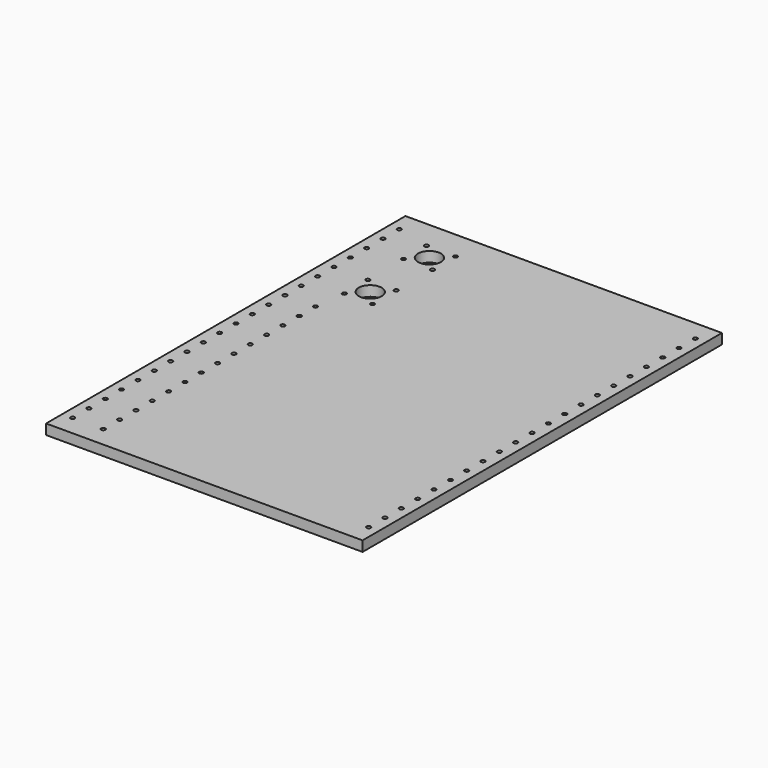
from build123d import *

# Parameters (mm, degrees)
F0_R     = 2.5527
F0_R_2   = 14.2875
F1_DEPTH = 12.7


with BuildPart() as f1:
    # F0 (on Top) → F1 (new body)
    with BuildSketch(Plane.XY):
        Polygon((171.45, -279.4), (196.85, -279.4), (196.85, 279.4), (171.45, 279.4), (-171.45, 279.4), (-196.85, 279.4), (-196.85, -279.4), (-171.45, -279.4), (-158.75, -279.4), (-133.35, -279.4), align=None)
        with Locations((-184.15, -254)):
            Circle(F0_R, mode=Mode.SUBTRACT)
        with Locations((-184.15, -228.6)):
            Circle(F0_R, mode=Mode.SUBTRACT)
        with Locations((-146.05, -254)):
            Circle(F0_R, mode=Mode.SUBTRACT)
        with Locations((-146.05, -228.6)):
            Circle(F0_R, mode=Mode.SUBTRACT)
        with Locations((-184.15, -203.2)):
            Circle(F0_R, mode=Mode.SUBTRACT)
        with Locations((-184.15, -177.8)):
            Circle(F0_R, mode=Mode.SUBTRACT)
        with Locations((-184.15, -152.4)):
            Circle(F0_R, mode=Mode.SUBTRACT)
        with Locations((-146.05, -203.2)):
            Circle(F0_R, mode=Mode.SUBTRACT)
        with Locations((-146.05, -177.8)):
            Circle(F0_R, mode=Mode.SUBTRACT)
        with Locations((-146.05, -152.4)):
            Circle(F0_R, mode=Mode.SUBTRACT)
        with Locations((-184.15, -127)):
            Circle(F0_R, mode=Mode.SUBTRACT)
        with Locations((-184.15, -101.6)):
            Circle(F0_R, mode=Mode.SUBTRACT)
        with Locations((-184.15, -76.2)):
            Circle(F0_R, mode=Mode.SUBTRACT)
        with Locations((-146.05, -127)):
            Circle(F0_R, mode=Mode.SUBTRACT)
        with Locations((-146.05, -101.6)):
            Circle(F0_R, mode=Mode.SUBTRACT)
        with Locations((-146.05, -76.2)):
            Circle(F0_R, mode=Mode.SUBTRACT)
        with Locations((-184.15, -50.8)):
            Circle(F0_R, mode=Mode.SUBTRACT)
        with Locations((-184.15, -25.4)):
            Circle(F0_R, mode=Mode.SUBTRACT)
        with Locations((-146.05, -50.8)):
            Circle(F0_R, mode=Mode.SUBTRACT)
        with Locations((-146.05, -25.4)):
            Circle(F0_R, mode=Mode.SUBTRACT)
        with Locations((184.15, -254)):
            Circle(F0_R, mode=Mode.SUBTRACT)
        with Locations((184.15, -228.6)):
            Circle(F0_R, mode=Mode.SUBTRACT)
        with Locations((184.15, -203.2)):
            Circle(F0_R, mode=Mode.SUBTRACT)
        with Locations((184.15, -177.8)):
            Circle(F0_R, mode=Mode.SUBTRACT)
        with Locations((184.15, -152.4)):
            Circle(F0_R, mode=Mode.SUBTRACT)
        with Locations((184.15, -127)):
            Circle(F0_R, mode=Mode.SUBTRACT)
        with Locations((184.15, -101.6)):
            Circle(F0_R, mode=Mode.SUBTRACT)
        with Locations((184.15, -76.2)):
            Circle(F0_R, mode=Mode.SUBTRACT)
        with Locations((184.15, -50.8)):
            Circle(F0_R, mode=Mode.SUBTRACT)
        with Locations((184.15, -25.4)):
            Circle(F0_R, mode=Mode.SUBTRACT)
        with Locations((-184.15, 0)):
            Circle(F0_R, mode=Mode.SUBTRACT)
        with Locations((-184.15, 25.4)):
            Circle(F0_R, mode=Mode.SUBTRACT)
        with Locations((-184.15, 50.8)):
            Circle(F0_R, mode=Mode.SUBTRACT)
        with Locations((-146.05, 0)):
            Circle(F0_R, mode=Mode.SUBTRACT)
        with Locations((-146.05, 25.4)):
            Circle(F0_R, mode=Mode.SUBTRACT)
        with Locations((-146.05, 50.8)):
            Circle(F0_R, mode=Mode.SUBTRACT)
        with Locations((-184.15, 76.2)):
            Circle(F0_R, mode=Mode.SUBTRACT)
        with Locations((-184.15, 101.6)):
            Circle(F0_R, mode=Mode.SUBTRACT)
        with Locations((-184.15, 127)):
            Circle(F0_R, mode=Mode.SUBTRACT)
        with Locations((-146.05, 76.2)):
            Circle(F0_R, mode=Mode.SUBTRACT)
        with Locations((-141.351, 114.965242)):
            Circle(F0_R, mode=Mode.SUBTRACT)
        with Locations((-123.825, 133.35)):
            Circle(F0_R_2, mode=Mode.SUBTRACT)
        with Locations((-106.299, 114.965242)):
            Circle(F0_R, mode=Mode.SUBTRACT)
        with Locations((-184.15, 152.4)):
            Circle(F0_R, mode=Mode.SUBTRACT)
        with Locations((-184.15, 177.8)):
            Circle(F0_R, mode=Mode.SUBTRACT)
        with Locations((-184.15, 203.2)):
            Circle(F0_R, mode=Mode.SUBTRACT)
        with Locations((-141.351, 151.734758)):
            Circle(F0_R, mode=Mode.SUBTRACT)
        with Locations((-106.299, 151.734758)):
            Circle(F0_R, mode=Mode.SUBTRACT)
        with Locations((-141.893041, 207.572664)):
            Circle(F0_R, mode=Mode.SUBTRACT)
        with Locations((-105.756959, 207.572664)):
            Circle(F0_R, mode=Mode.SUBTRACT)
        with Locations((-184.15, 228.6)):
            Circle(F0_R, mode=Mode.SUBTRACT)
        with Locations((-184.15, 254)):
            Circle(F0_R, mode=Mode.SUBTRACT)
        with Locations((-123.825, 225.425)):
            Circle(F0_R_2, mode=Mode.SUBTRACT)
        with Locations((-141.893041, 243.277336)):
            Circle(F0_R, mode=Mode.SUBTRACT)
        with Locations((-105.756959, 243.277336)):
            Circle(F0_R, mode=Mode.SUBTRACT)
        with Locations((184.15, 0)):
            Circle(F0_R, mode=Mode.SUBTRACT)
        with Locations((184.15, 25.4)):
            Circle(F0_R, mode=Mode.SUBTRACT)
        with Locations((184.15, 50.8)):
            Circle(F0_R, mode=Mode.SUBTRACT)
        with Locations((184.15, 76.2)):
            Circle(F0_R, mode=Mode.SUBTRACT)
        with Locations((184.15, 101.6)):
            Circle(F0_R, mode=Mode.SUBTRACT)
        with Locations((184.15, 127)):
            Circle(F0_R, mode=Mode.SUBTRACT)
        with Locations((184.15, 152.4)):
            Circle(F0_R, mode=Mode.SUBTRACT)
        with Locations((184.15, 177.8)):
            Circle(F0_R, mode=Mode.SUBTRACT)
        with Locations((184.15, 203.2)):
            Circle(F0_R, mode=Mode.SUBTRACT)
        with Locations((184.15, 228.6)):
            Circle(F0_R, mode=Mode.SUBTRACT)
        with Locations((184.15, 254)):
            Circle(F0_R, mode=Mode.SUBTRACT)
    extrude(amount=F1_DEPTH)


solid = f1.part
